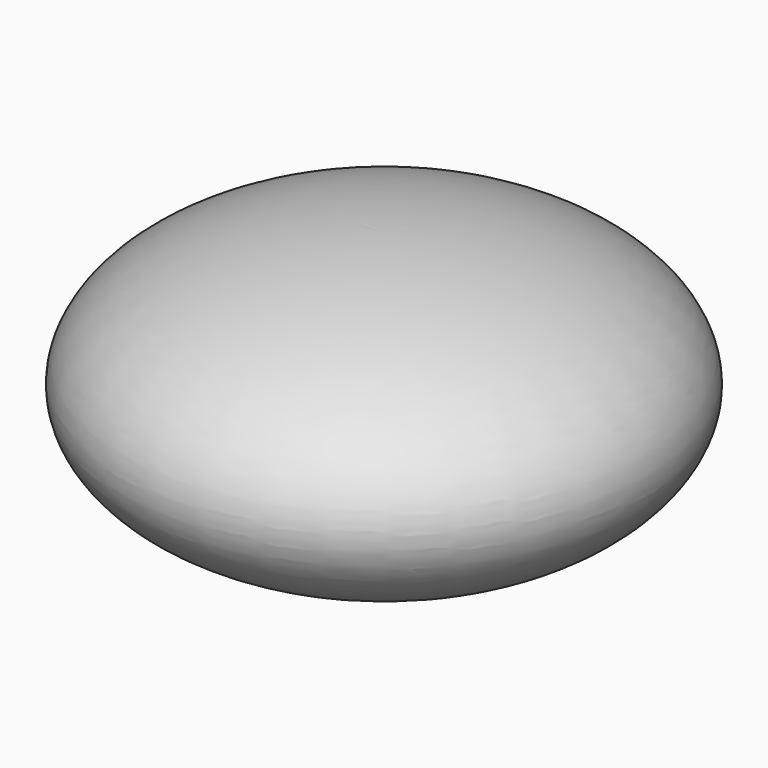
from build123d import *


with BuildPart() as f1:
    # F0 (on Front) → F1 (revolve)
    with BuildSketch(Plane.XZ):
        with BuildLine():
            Line((0, -16.573803), (0, 51.618082))
            add(Edge.make_bspline(
                [(0, 51.618082), (-67.455173, 51.618082), (-67.455173, 17.522139), (-67.455173, -16.573803), (0, -16.573803)],
                knots=[1.570796, 1.570796, 1.570796, 3.141593, 3.141593, 4.712389, 4.712389, 4.712389], degree=2, weights=[1, 0.707107, 1, 0.707107, 1]))
        make_face()
    revolve(axis=Axis((0, 0, 17.522139), (0, 0, 1)))


solid = f1.part
